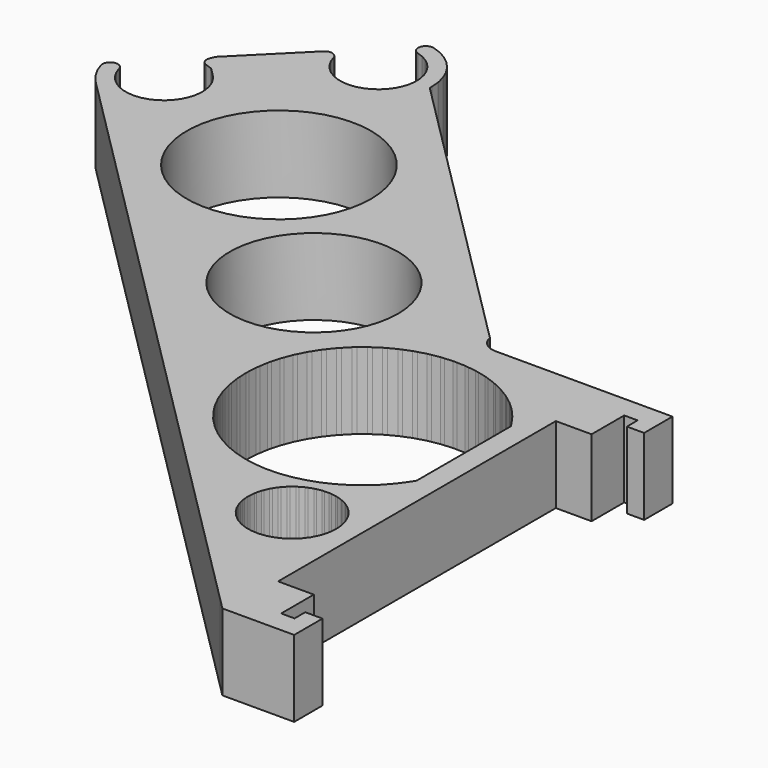
from build123d import *

# Parameters (mm, degrees)
F1_DEPTH = 1
F2_R     = 1.0976076501
F2_R_2   = 1.2026068383
F3_DEPTH = 2
F4_SCALE = 10


with BuildPart() as f1:
    # F0 (on Top) → F1 (new body)
    with BuildSketch(Plane.XY):
        Polygon((2.170555, 0.827254), (2.162383, 0.861292), (2.157356, 0.866636), (-1.75045, 4.774441), (-1.763213, 4.790604), (-1.763494, 4.791775), (-1.76624, 4.826673), (-1.766335, 4.827873), (-1.775374, 4.938108), (-1.775684, 4.941899), (-1.802559, 5.04919), (-1.803484, 5.052879), (-1.847477, 5.15436), (-1.84899, 5.157849), (-1.908926, 5.250809), (-1.910988, 5.254005), (-1.985266, 5.335958), (-1.98782, 5.338777), (-2.074456, 5.407536), (-2.077436, 5.4099), (-2.174115, 5.463629), (-2.17744, 5.465476), (-2.28158, 5.502739), (-2.285161, 5.50402), (-2.301413, 5.506963), (-2.317927, 5.50719), (-2.334254, 5.504696), (-2.349947, 5.499549), (-2.364579, 5.491889), (-2.377751, 5.481926), (-2.389104, 5.469931), (-2.398327, 5.45623), (-2.405169, 5.441197), (-2.409443, 5.425244), (-2.411034, 5.408805), (-2.409897, 5.392328), (-2.406063, 5.376265), (-2.399638, 5.361049), (-2.390796, 5.347099), (-2.379779, 5.334795), (-2.366886, 5.324472), (-2.352471, 5.316412), (-2.336925, 5.310835), (-2.260812, 5.283432), (-2.258194, 5.28249), (-2.187717, 5.242778), (-2.185293, 5.241413), (-2.122425, 5.190503), (-2.120263, 5.188752), (-2.066766, 5.128071), (-2.064926, 5.125984), (-2.022297, 5.057231), (-2.020831, 5.054867), (-1.990266, 4.979968), (-1.989215, 4.977392), (-1.971568, 4.898445), (-1.970961, 4.89573), (-1.966727, 4.814944), (-1.966581, 4.812166), (-1.97588, 4.731807), (-1.976199, 4.729043), (-1.998768, 4.651359), (-1.999544, 4.648688), (-2.034753, 4.575855), (-2.035964, 4.573351), (-2.082825, 4.507411), (-2.084437, 4.505143), (-2.141639, 4.447941), (-2.143606, 4.445974), (-2.209546, 4.399112), (-2.211814, 4.397501), (-2.284646, 4.362293), (-2.287151, 4.361082), (-2.364835, 4.338512), (-2.367506, 4.337736), (-2.447866, 4.328439), (-2.450629, 4.328119), (-2.531414, 4.332352), (-2.534192, 4.332498), (-2.61314, 4.350145), (-2.615855, 4.350752), (-2.690754, 4.381317), (-2.69333, 4.382369), (-2.762083, 4.424997), (-2.764447, 4.426463), (-2.825128, 4.47996), (-2.827215, 4.4818), (-2.878124, 4.544669), (-2.879875, 4.546831), (-2.919587, 4.617308), (-2.920953, 4.619732), (-2.948355, 4.695845), (-2.949298, 4.698462), (-2.9547, 4.713622), (-2.962465, 4.727718), (-2.97239, 4.740387), (-2.984218, 4.751299), (-2.997644, 4.760172), (-3.01232, 4.766777), (-3.027865, 4.770943), (-3.043877, 4.77256), (-3.059941, 4.771588), (-3.075641, 4.768053), (-3.09057, 4.762044), (-3.104342, 4.753718), (-3.116601, 4.743291), (-3.900775, 3.959117), (-3.913641, 3.926329), (-3.919957, 3.910233), (-3.926273, 3.894137), (-3.927836, 3.8886), (-3.931302, 3.876319), (-3.932893, 3.85988), (-3.931756, 3.843403), (-3.927923, 3.82734), (-3.921497, 3.812124), (-3.912655, 3.798174), (-3.901638, 3.78587), (-3.888746, 3.775547), (-3.87433, 3.767487), (-3.858784, 3.76191), (-3.782671, 3.734507), (-3.780054, 3.733565), (-3.767532, 3.724518), (-3.76249, 3.720042), (-3.752906, 3.710353), (-3.746181, 3.703555), (-3.677819, 3.635193), (-3.668416, 3.62579), (-3.616468, 3.564377), (-3.614681, 3.562265), (-3.573636, 3.493087), (-3.572225, 3.490708), (-3.54322, 3.415681), (-3.542223, 3.413101), (-3.526061, 3.334303), (-3.525505, 3.331593), (-3.522635, 3.251207), (-3.522536, 3.248442), (-3.533036, 3.168692), (-3.533397, 3.16595), (-3.556977, 3.089046), (-3.557788, 3.086401), (-3.593794, 3.014471), (-3.595032, 3.011998), (-3.642468, 2.947035), (-3.644099, 2.944801), (-3.701651, 2.888605), (-3.70363, 2.886672), (-3.769705, 2.840798), (-3.771977, 2.83922), (-3.844744, 2.804938), (-3.847246, 2.803759), (-3.924691, 2.782019), (-3.927354, 2.781271), (-4.007331, 2.772675), (-4.010081, 2.772379), (-4.090377, 2.777163), (-4.093138, 2.777328), (-4.171529, 2.795362), (-4.174225, 2.795982), (-4.248539, 2.826767), (-4.251094, 2.827826), (-4.319275, 2.870507), (-4.321619, 2.871974), (-4.381778, 2.925372), (-4.383847, 2.927208), (-4.434317, 2.989842), (-4.436053, 2.991996), (-4.475438, 3.062132), (-4.476792, 3.064544), (-4.504001, 3.140241), (-4.504937, 3.142844), (-4.510514, 3.15839), (-4.518573, 3.172806), (-4.528896, 3.185698), (-4.5412, 3.196716), (-4.555149, 3.205558), (-4.570363, 3.211984), (-4.586428, 3.215818), (-4.602905, 3.216955), (-4.619344, 3.215365), (-4.635297, 3.211091), (-4.650329, 3.20425), (-4.66403, 3.195027), (-4.676027, 3.183676), (-4.685991, 3.170504), (-4.693651, 3.155872), (-4.698799, 3.140179), (-4.701293, 3.123852), (-4.701066, 3.107338), (-4.698124, 3.091086), (-4.65902, 2.982906), (-4.657675, 2.979186), (-4.600814, 2.879192), (-4.598858, 2.875753), (-4.525883, 2.786833), (-4.523373, 2.783775), (-4.501335, 2.75802), (3.618874, -5.362188), (3.763877, -5.507191), (4.670128, -5.507191), (4.701292, -5.507191), (4.701292, -5.060067), (4.701292, -5.044691), (4.483773, -5.044691), (4.476292, -5.044691), (4.476292, -5.213873), (4.476292, -5.219691), (4.30711, -5.219691), (4.301292, -5.219691), (4.301292, -5.197528), (4.301292, -5.020221), (4.301292, -4.686446), (4.168313, -4.686446), (3.834537, -4.686446), (3.834537, -3.223671), (3.834537, -0.152935), (3.967517, -0.152935), (4.301292, -0.152935), (4.301292, 0.18084), (4.301292, 0.358146), (4.301292, 0.38031), (4.470475, 0.38031), (4.476292, 0.38031), (4.476292, 0.211127), (4.476292, 0.205309), (4.693812, 0.205309), (4.701292, 0.205309), (4.701292, 0.652434), (4.701292, 0.667809), (2.46685, 0.667809), (2.390011, 0.667809), (2.355115, 0.670556), (2.353915, 0.67065), (2.319876, 0.678822), (2.318706, 0.679103), (2.286365, 0.692499), (2.285253, 0.69296), (2.255406, 0.71125), (2.25438, 0.711879), (2.227762, 0.734613), (2.226846, 0.735394), (2.204112, 0.762013), (2.203331, 0.762928), (2.185041, 0.792775), (2.184412, 0.793801), (2.171016, 0.826142), align=None)
        Polygon((2.422465, -3.410907), (2.424908, -3.380644), (2.429923, -3.318524), (2.437189, -3.289045), (2.452103, -3.228534), (2.464004, -3.200602), (2.488432, -3.143267), (2.504659, -3.117606), (2.537968, -3.064933), (2.558101, -3.042207), (2.599428, -2.995558), (2.622946, -2.976356), (2.671221, -2.936941), (2.697515, -2.92176), (2.751487, -2.8906), (2.779875, -2.879833), (2.838147, -2.857734), (2.867895, -2.851661), (2.928957, -2.839195), (2.959294, -2.837972), (3.021565, -2.835463), (3.051705, -2.839122), (3.113573, -2.846634), (3.142735, -2.855081), (3.202597, -2.87242), (3.230027, -2.885436), (3.286331, -2.912153), (3.311318, -2.9294), (3.362608, -2.964803), (3.384505, -2.985835), (3.429451, -3.029007), (3.447691, -3.053279), (3.48513, -3.103102), (3.499239, -3.129986), (3.528202, -3.185169), (3.537817, -3.213968), (3.557552, -3.273082), (3.562422, -3.30305), (3.572419, -3.364565), (3.572419, -3.394926), (3.572419, -3.457248), (3.567549, -3.487216), (3.557552, -3.548731), (3.547937, -3.57753), (3.528202, -3.636644), (3.514092, -3.663528), (3.48513, -3.718711), (3.46689, -3.742984), (3.429451, -3.792806), (3.407555, -3.813838), (3.362608, -3.85701), (3.337621, -3.874257), (3.286331, -3.90966), (3.258901, -3.922676), (3.202597, -3.949393), (3.173434, -3.95784), (3.113573, -3.975179), (3.083433, -3.978838), (3.021565, -3.98635), (2.991229, -3.985128), (2.928957, -3.982618), (2.89921, -3.976545), (2.838147, -3.964079), (2.809759, -3.953313), (2.751487, -3.931214), (2.725193, -3.916033), (2.671221, -3.884872), (2.647703, -3.86567), (2.599428, -3.826255), (2.579295, -3.803529), (2.537968, -3.756881), (2.521741, -3.731219), (2.488432, -3.678546), (2.476531, -3.650614), (2.452103, -3.593279), (2.444837, -3.5638), (2.429923, -3.503289), (2.42748, -3.473026), align=None, mode=Mode.SUBTRACT)
        Polygon((3.283161, -2.399068), (3.20589, -2.470496), (3.164412, -2.501582), (3.080209, -2.564689), (3.035756, -2.591346), (2.945512, -2.645464), (2.898554, -2.667411), (2.803225, -2.711965), (2.754259, -2.728968), (2.654856, -2.763487), (2.604402, -2.775368), (2.501976, -2.799486), (2.450568, -2.806117), (2.346206, -2.819579), (2.294389, -2.820891), (2.189196, -2.823554), (2.137518, -2.819532), (2.032609, -2.811368), (1.981618, -2.802055), (1.878104, -2.78315), (1.828341, -2.768645), (1.727318, -2.7392), (1.679309, -2.719657), (1.581848, -2.679983), (1.536103, -2.655609), (1.443237, -2.606127), (1.400239, -2.577179), (1.312951, -2.518414), (1.273157, -2.4852), (1.192371, -2.417773), (1.156202, -2.380644), (1.082776, -2.30527), (1.050615, -2.26462), (0.985326, -2.182098), (0.957513, -2.138357), (0.901053, -2.04956), (0.877884, -2.003193), (0.83085, -1.909063), (0.81257, -1.860559), (0.775461, -1.762093), (0.762264, -1.711968), (0.735473, -1.610208), (0.727499, -1.558992), (0.71131, -1.455018), (0.708642, -1.403252), (0.703227, -1.298165), (0.705894, -1.2464), (0.71131, -1.141313), (0.719284, -1.090096), (0.735473, -0.986122), (0.74867, -0.935996), (0.775461, -0.834238), (0.793741, -0.785734), (0.83085, -0.687268), (0.854019, -0.6409), (0.901053, -0.54677), (0.928865, -0.50303), (0.985326, -0.414233), (1.017487, -0.373583), (1.082776, -0.291061), (1.118945, -0.253932), (1.192371, -0.178558), (1.232166, -0.145344), (1.312951, -0.077917), (1.355948, -0.048969), (1.443237, 0.009797), (1.488982, 0.034171), (1.581848, 0.083653), (1.629857, 0.103196), (1.727318, 0.14287), (1.777081, 0.157374), (1.878104, 0.186819), (1.929094, 0.196132), (2.032609, 0.215037), (2.084287, 0.219059), (2.189196, 0.227223), (2.241013, 0.225911), (2.346206, 0.223248), (2.397614, 0.216617), (2.501976, 0.203156), (2.55243, 0.191275), (2.654856, 0.167157), (2.703821, 0.150153), (2.803225, 0.115634), (2.850183, 0.093687), (2.945512, 0.049133), (2.989965, 0.022475), (3.080209, -0.031642), (3.121687, -0.062728), (3.20589, -0.125835), (3.243953, -0.16102), (3.321223, -0.232448), (3.355468, -0.271359), (3.424986, -0.350352), (3.455049, -0.392577), (3.51608, -0.478297), (3.528938, -0.499621), (3.548376, -0.530832), (3.548376, -0.855952), (3.548376, -1.167391), (3.548376, -1.204581), (3.548376, -1.357696), (3.548376, -1.419904), (3.548376, -1.475784), (3.548376, -1.553325), (3.548376, -1.562822), (3.548376, -1.564348), (3.548376, -1.618428), (3.548376, -1.623613), (3.548376, -1.62715), (3.548376, -1.645311), (3.548376, -1.664245), (3.548376, -1.704018), (3.548376, -1.72368), (3.548376, -1.760062), (3.548376, -1.809138), (3.548376, -1.984502), (3.548376, -2.03066), (3.548376, -2.064556), (3.542442, -2.074336), (3.51608, -2.118034), (3.486017, -2.160259), (3.424986, -2.245979), (3.390742, -2.28489), (3.321223, -2.363883), align=None, mode=Mode.SUBTRACT)
    extrude(amount=F1_DEPTH)

    # F2 (on face) → F3 (cut)
    with BuildSketch(Plane.XY.offset(1)):
        with Locations((0, 0.6917295977)):
            Circle(F2_R)
        with Locations((-1.9038890023, 2.5003631599)):
            Circle(F2_R_2)
    extrude(amount=-F3_DEPTH, mode=Mode.SUBTRACT)


with BuildPart() as f1_1:
    # F4: moved
    add(f1.part.scale(F4_SCALE).moved(Location((-42.311628, 49.564719, -9))))


solid = f1_1.part
